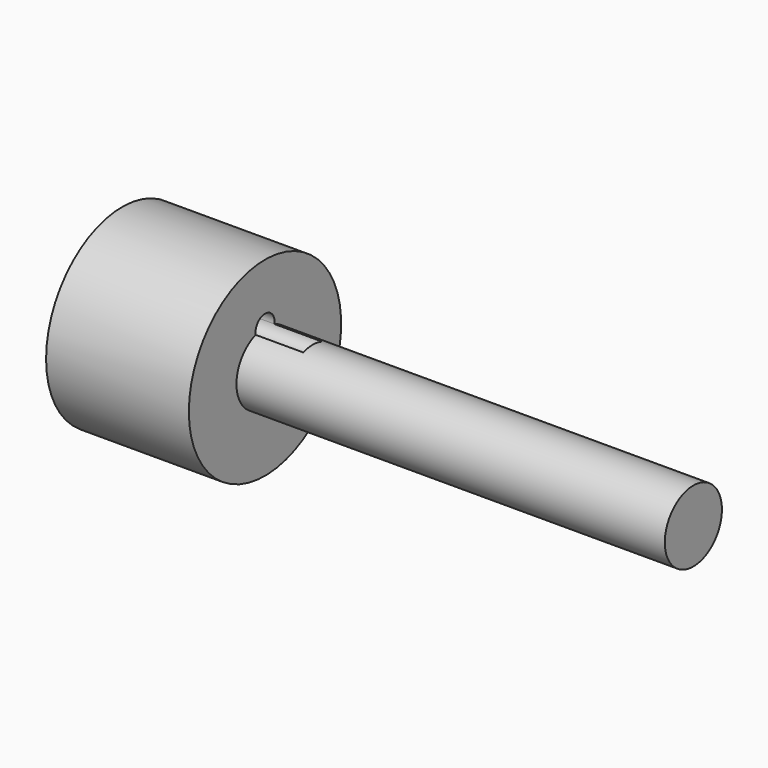
from build123d import *

# Parameters (mm, degrees)
F0_R     = 4.7625
F1_DEPTH = 76.2
F3_R     = 12.7
F3_R_2   = 4.7625
F4_DEPTH = 19.05
F2_R     = 1.5875
F5_DEPTH = 25.4


with BuildPart() as f1:
    # F0 (on Right) → F1 (new body)
    with BuildSketch(Plane.YZ):
        Circle(F0_R)
    extrude(amount=F1_DEPTH)


with BuildPart() as f4:
    # F3 (on face) → F4 (new body)
    with BuildSketch(Plane(origin=(0, 0, 0), x_dir=(0, -1, 0), z_dir=(-1, 0, 0))):
        Circle(F3_R)
        Circle(F3_R_2, mode=Mode.SUBTRACT)
    extrude(amount=-F4_DEPTH)


with BuildPart() as f5_tool:
    # F2 (on Right) → F5 (new body)
    with BuildSketch(Plane.YZ):
        with Locations((0, 4.7625)):
            Circle(F2_R)
    extrude(amount=F5_DEPTH)


with BuildPart() as f1_1:
    add(f1.part)

    # F5: cut by f5_tool
    add(f5_tool.part, mode=Mode.SUBTRACT)


with BuildPart() as f4_1:
    add(f4.part)

    # F5: cut by f5_tool
    add(f5_tool.part, mode=Mode.SUBTRACT)


solid = Compound([f1_1.part, f4_1.part])
